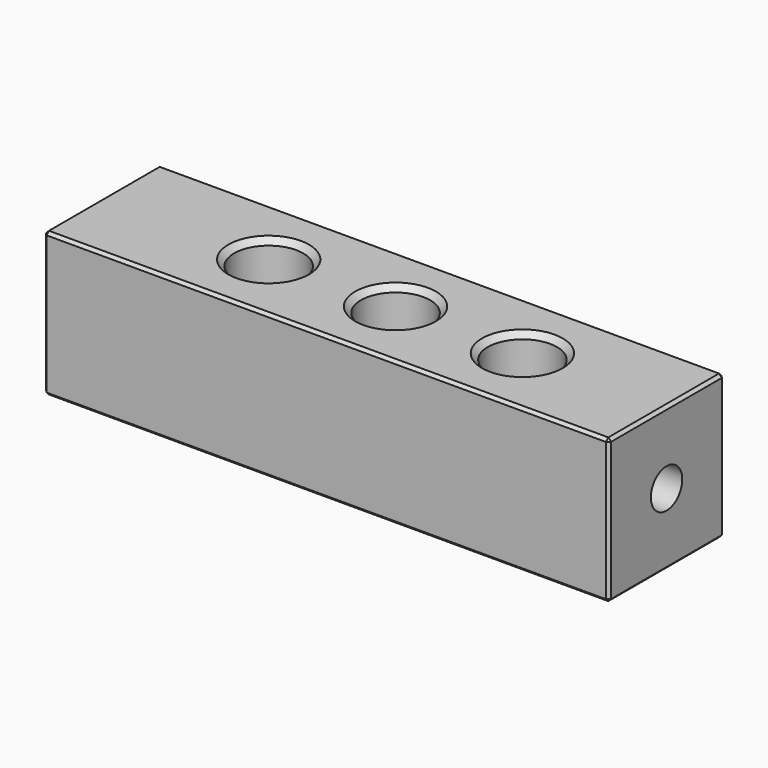
from build123d import *

# Parameters (mm, degrees)
F0_W     = 98
F0_H     = 25
F0_R     = 6
F1_DEPTH = 25
F3_START = 35
F2_R     = 3.4
F3_DEPTH = 85
F7_START = -35
F6_R     = 8
F7_DEPTH = 65
F8_SIZE  = 0.5
F9_SIZE  = 1


with BuildPart() as f1:
    # F0 (on Top) → F1 (new body)
    with BuildSketch(Plane.XY):
        Rectangle(F0_W, F0_H)
        with Locations((-20, 0)):
            Circle(F0_R, mode=Mode.SUBTRACT)
        with Locations((2, 0)):
            Circle(F0_R, mode=Mode.SUBTRACT)
        with Locations((24, 0)):
            Circle(F0_R, mode=Mode.SUBTRACT)
    extrude(amount=F1_DEPTH)

    # F2 (on Right) → F3 (cut)
    with BuildSketch(Plane.YZ.offset(F3_START)):
        with Locations((0, 12.5)):
            Circle(F2_R)
    extrude(amount=F3_DEPTH, mode=Mode.SUBTRACT)

    # F6 (on Right) → F7 (cut)
    with BuildSketch(Plane.YZ.offset(F7_START)):
        with Locations((0, 12.5)):
            Circle(F6_R)
    extrude(amount=-F7_DEPTH, mode=Mode.SUBTRACT)

    # F8
    f8_edges = [f1.edges().sort_by_distance(p)[0] for p in [
        (49, 12.5, 12.5),
        (49, -12.5, 12.5),
        (49, 0, 0),
        (49, 0, 25),
        (-49, 0, 25),
        (0, 12.5, 25),
        (0, -12.5, 25),
        (0, -12.5, 0),
        (-49, -12.5, 12.5),
        (-49, 0, 0),
        (-49, 12.5, 12.5),
        (0, 12.5, 0),
    ]]
    chamfer(f8_edges, length=F8_SIZE)

    # F9
    f9_edges = [f1.edges().sort_by_distance(p)[0] for p in [
        (-4, 0, 0),
        (18, 0, 0),
        (-26, 0, 0),
        (-26, 0, 25),
        (-4, 0, 25),
        (18, 0, 25),
    ]]
    chamfer(f9_edges, length=F9_SIZE)


solid = f1.part
